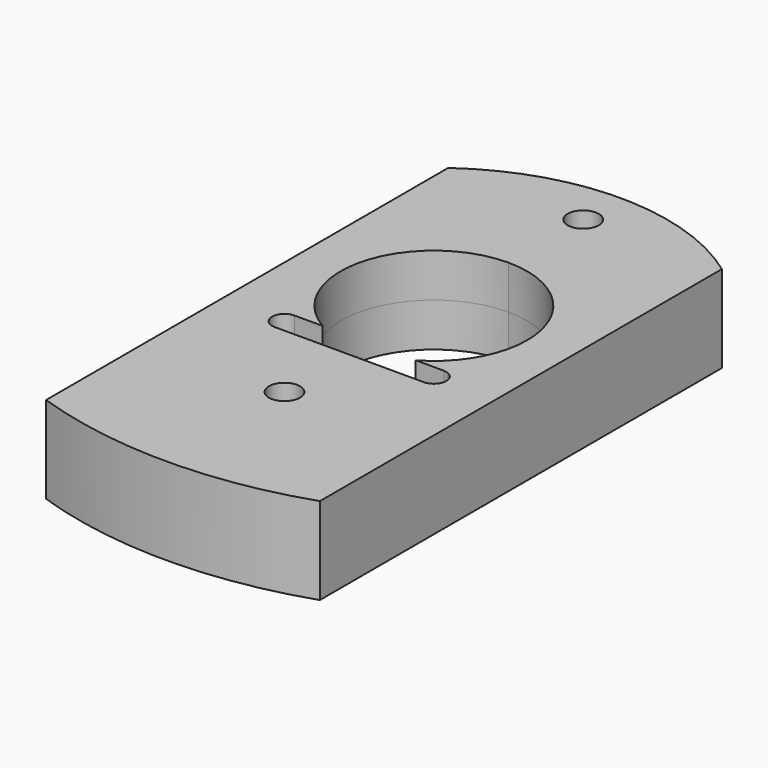
from build123d import *

# Parameters (mm, degrees)
F0_R          = 2.5
F1_DEPTH      = 7
F1_DEPTH_BACK = 7
F3_DEPTH      = 25
F3_DEPTH_BACK = 25


with BuildPart() as f1:
    # F0 (on Top) → F1 (new body, two sides)
    with BuildSketch(Plane.XY) as f1_sk:
        with BuildLine():
            ThreePointArc((22, 30.368569), (0, 37.5), (-22, 30.368569))
            Line((-22, 30.368569), (-22, -50.398777))
            ThreePointArc((-22, -50.398777), (0, -54), (22, -50.398777))
            Line((22, -50.398777), (22, 2.298294))
            Line((22, 2.298294), (22, 30.368569))
        make_face()
        with Locations((0, -30)):
            Circle(F0_R, mode=Mode.SUBTRACT)
        with BuildLine():
            ThreePointArc((0, 15), (7.5, 12.990381), (12.990381, 7.5))
            ThreePointArc((12.990381, 7.5), (14.488887, 3.882286), (15, 0))
            ThreePointArc((15, 0), (-10.606602, -10.606602), (0, 15))
        make_face(mode=Mode.SUBTRACT)
        with Locations((0, 30)):
            Circle(F0_R, mode=Mode.SUBTRACT)
    extrude(amount=F1_DEPTH)
    extrude(f1_sk.sketch, amount=-F1_DEPTH_BACK)

    # F2 (on Top) → F3 (cut, two sides)
    with BuildSketch(Plane.XY) as f3_sk:
        with BuildLine():
            Line((0, -13), (-12, -13))
            ThreePointArc((-12, -13), (-14, -15), (-12, -17))
            Line((-12, -17), (0, -17))
            Line((0, -17), (12, -17))
            ThreePointArc((12, -17), (14, -15), (12, -13))
            Line((12, -13), (0, -13))
        make_face()
    extrude(amount=F3_DEPTH, mode=Mode.SUBTRACT)
    extrude(f3_sk.sketch, amount=-F3_DEPTH_BACK, mode=Mode.SUBTRACT)


solid = f1.part
